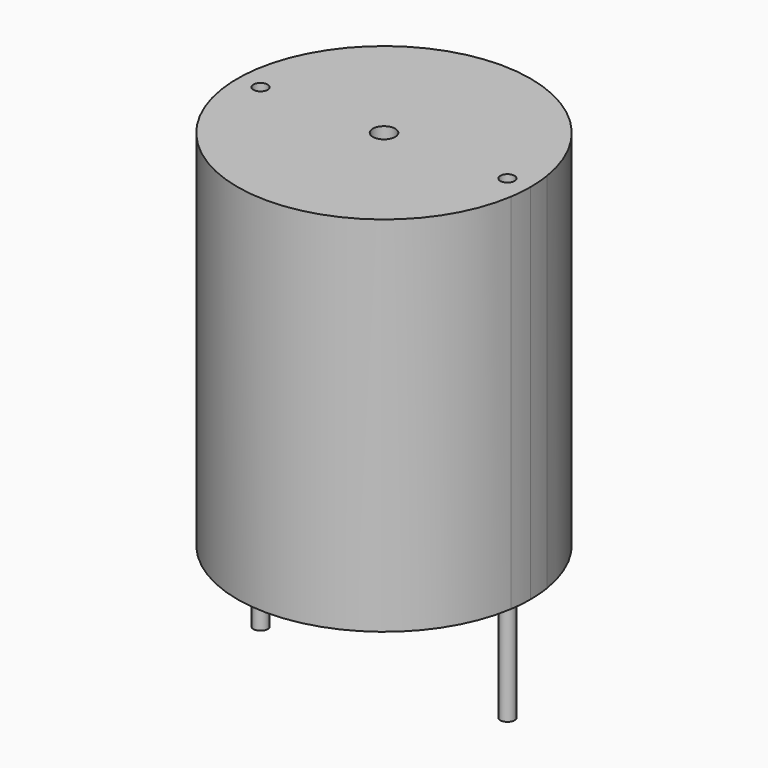
from build123d import *

# Parameters (mm, degrees)
F0_R          = 0.635
F0_R_2        = 0.4064
F1_DEPTH      = 20.6248
F2_DEPTH      = 6.35
F2_DEPTH_BACK = 6.35


with BuildPart() as f1:
    # F0 (on Top) → F1 (new body)
    with BuildSketch(Plane.XY):
        with BuildLine():
            Line((5.6938322451, 1.27), (8.2338322451, 1.27))
            ThreePointArc((8.2338322451, 1.27), (0, 8.3312), (-8.2338322451, 1.27))
            Line((-8.2338322451, 1.27), (-5.6938322451, 1.27))
            Line((-5.6938322451, 1.27), (-5.6938322451, -1.27))
            Line((-5.6938322451, -1.27), (-8.2338322451, -1.27))
            ThreePointArc((-8.2338322451, -1.27), (0, -8.3312), (8.2338322451, -1.27))
            Line((8.2338322451, -1.27), (5.6938322451, -1.27))
            Line((5.6938322451, -1.27), (5.6938322451, 1.27))
        make_face()
        Circle(F0_R, mode=Mode.SUBTRACT)
        with BuildLine():
            Line((-5.6938322451, 1.27), (-8.2338322451, 1.27))
            ThreePointArc((-8.2338322451, 1.27), (-8.3312, 0), (-8.2338322451, -1.27))
            Line((-8.2338322451, -1.27), (-5.6938322451, -1.27))
            Line((-5.6938322451, -1.27), (-5.6938322451, 1.27))
        make_face()
        with Locations((-7.0125161225, 0)):
            Circle(F0_R_2, mode=Mode.SUBTRACT)
        with BuildLine():
            ThreePointArc((8.2338322451, -1.27), (8.3068223961, -0.6368635018), (8.3312, 0))
            ThreePointArc((8.3312, 0), (8.3068223961, 0.6368635018), (8.2338322451, 1.27))
            Line((8.2338322451, 1.27), (5.6938322451, 1.27))
            Line((5.6938322451, 1.27), (5.6938322451, -1.27))
            Line((5.6938322451, -1.27), (8.2338322451, -1.27))
        make_face()
        with Locations((7.0125161225, 0)):
            Circle(F0_R_2, mode=Mode.SUBTRACT)
    extrude(amount=F1_DEPTH)


with BuildPart() as f2:
    # F0 (on Top) → F2 (new body, two sides)
    with BuildSketch(Plane.XY) as f2_sk:
        with Locations((-7.0125161225, 0)):
            Circle(F0_R_2)
    extrude(amount=F2_DEPTH)
    extrude(f2_sk.sketch, amount=-F2_DEPTH_BACK)


with BuildPart() as f2b:
    # F0 (on Top) → F2, piece 2 (new body, two sides)
    with BuildSketch(Plane.XY) as f2_2_sk:
        with Locations((7.0125161225, 0)):
            Circle(F0_R_2)
    extrude(amount=F2_DEPTH)
    extrude(f2_2_sk.sketch, amount=-F2_DEPTH_BACK)


solid = Compound([f1.part, f2.part, f2b.part])
